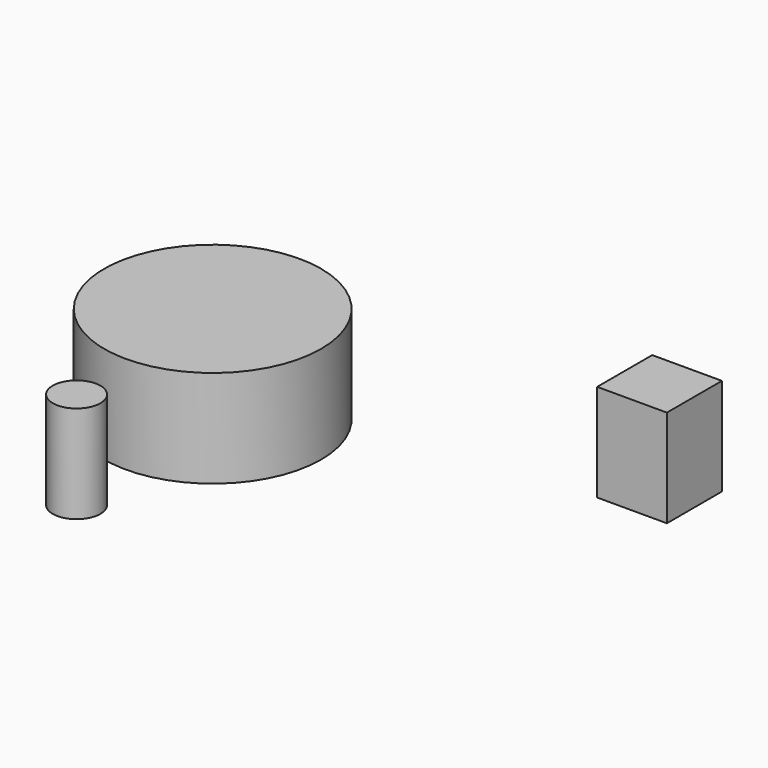
from build123d import *

# Parameters (mm, degrees)
F0_R     = 6.205701
F0_R_2   = 28.279121
F0_W     = 18.171029
F0_H     = 17.927393
F1_DEPTH = 25.4


with BuildPart() as f1:
    # F0 (on Top) → F1 (new body)
    with BuildSketch(Plane.XY):
        with Locations((-87.910451, 12.629693)):
            Circle(F0_R)
        with Locations((-89.850433, 59.393115)):
            Circle(F0_R_2)
        with Locations((1.822267, 90.38905)):
            Rectangle(F0_W, F0_H)
    extrude(amount=F1_DEPTH)


solid = f1.part
